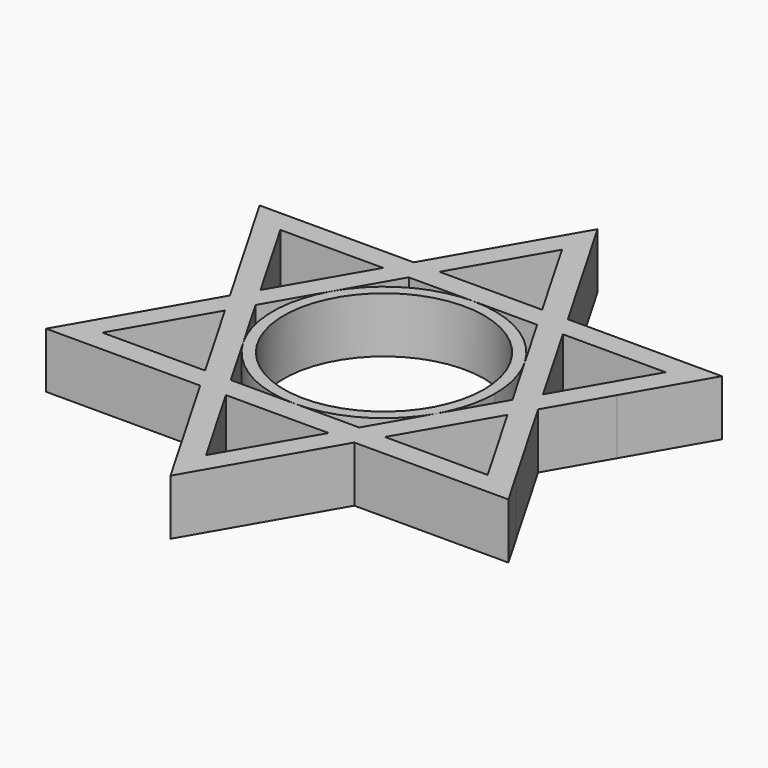
from build123d import *

# Parameters (mm, degrees)
F1_DEPTH = 5
F0_R     = 9


with BuildPart() as f1:
    # F0 (on Top) → F1 (new body)
    with BuildSketch(Plane.XY):
        Polygon((12.7017059222, 2), (11.5470053838, 0), (12.7017059222, -2), (13.8564064606, 0), align=None)
        Polygon((4.6188021535, 12), (5.7735026919, 10), (8.0829037687, 10), (6.9282032303, 12), align=None)
        Polygon((8.0829037687, -10), (5.7735026919, -10), (4.6188021535, -12), (6.9282032303, -12), align=None)
        Polygon((-8.0829037687, 10), (-5.7735026919, 10), (-4.6188021535, 12), (-6.9282032303, 12), align=None)
        Polygon((17.3205080757, 10), (12.7017059222, 2), (13.8564064606, 0), (16.8226809912, 5.1377381962), (20.7846096908, 12), (6.9282032303, 12), (8.0829037687, 10), align=None)
        Polygon((13.8564064606, 0), (12.7017059222, -2), (17.3205080757, -10), (8.0829037687, -10), (6.9282032303, -12), (20.7846096908, -12), (19.0525588833, -9), align=None)
        Polygon((0, 20), (4.6188021535, 12), (6.9282032303, 12), (0, 24), align=None)
        Polygon((-4.6188021535, -12), (-5.7735026919, -10), (-8.0829037687, -10), (-6.9282032303, -12), align=None)
        Polygon((6.9282032303, -12), (4.6188021535, -12), (0, -20), (-4.6188021535, -12), (-6.9282032303, -12), (0, -24), align=None)
        Polygon((-12.7017059222, -2), (-11.5470053838, 0), (-12.7017059222, 2), (-13.8564064606, 0), align=None)
        Polygon((-17.3205080757, 10), (-8.0829037687, 10), (-6.9282032303, 12), (-14.9249080569, 12), (-20.7846096908, 12), (-17.6557027298, 6.5805741713), (-13.8564064606, 0), (-12.7017059222, 2), align=None)
        Polygon((-6.9282032303, 12), (-4.6188021535, 12), (0, 20), (0, 24), align=None)
        Polygon((-6.9282032303, -12), (-8.0829037687, -10), (-17.3205080757, -10), (-12.7017059222, -2), (-13.8564064606, 0), (-19.0521317889, -8.999260251), (-20.7846096908, -12), (-10.969533585, -12), align=None)
        Polygon((5.7735026919, 10), (8.6602541255, 4.9999998482), (11.5470053838, 0), (12.7017059222, 2), (8.0829037687, 10), align=None)
        Polygon((-11.5470053838, 0), (-8.6602539262, 5.0000001934), (-5.7735026919, 10), (-8.0829037687, 10), (-12.7017059222, 2), align=None)
        Polygon((-5.7735026919, -10), (-8.6602540721, -4.9999999406), (-11.5470053838, 0), (-12.7017059222, -2), (-8.0829037687, -10), align=None)
        Polygon((11.5470053838, 0), (8.6602542144, -4.9999996942), (5.7735026919, -10), (8.0829037687, -10), (12.7017059222, -2), align=None)
        Polygon((5.7735026919, -10), (0, -10), (-5.7735026919, -10), (-4.6188021535, -12), (4.6188021535, -12), align=None)
        Polygon((-5.7735026919, 10), (0, 10), (5.7735026919, 10), (4.6188021535, 12), (-4.6188021535, 12), align=None)
    extrude(amount=F1_DEPTH)


with BuildPart() as f1b:
    # F0 (on Top) → F1, piece 2 (new body)
    with BuildSketch(Plane.XY):
        with BuildLine():
            ThreePointArc((8.6602542144, -4.9999996942), (9.6592583086, -2.5881902805), (10, 0))
            ThreePointArc((10, 0), (9.6592582856, 2.5881903664), (8.6602541255, 4.9999998482))
            ThreePointArc((8.6602541255, 4.9999998482), (5.0000000759, 8.660253994), (0, 10))
            ThreePointArc((0, 10), (-4.9999999033, 8.6602540937), (-8.6602539262, 5.0000001934))
            ThreePointArc((-8.6602539262, 5.0000001934), (-10, 1.46e-07), (-8.6602540721, -4.9999999406))
            ThreePointArc((-8.6602540721, -4.9999999406), (-5.0000000297, -8.6602540207), (0, -10))
            ThreePointArc((0, -10), (5.0000001529, -8.6602539496), (8.6602542144, -4.9999996942))
        make_face()
        Circle(F0_R, mode=Mode.SUBTRACT)
    extrude(amount=F1_DEPTH)


solid = Compound([f1.part, f1b.part])
